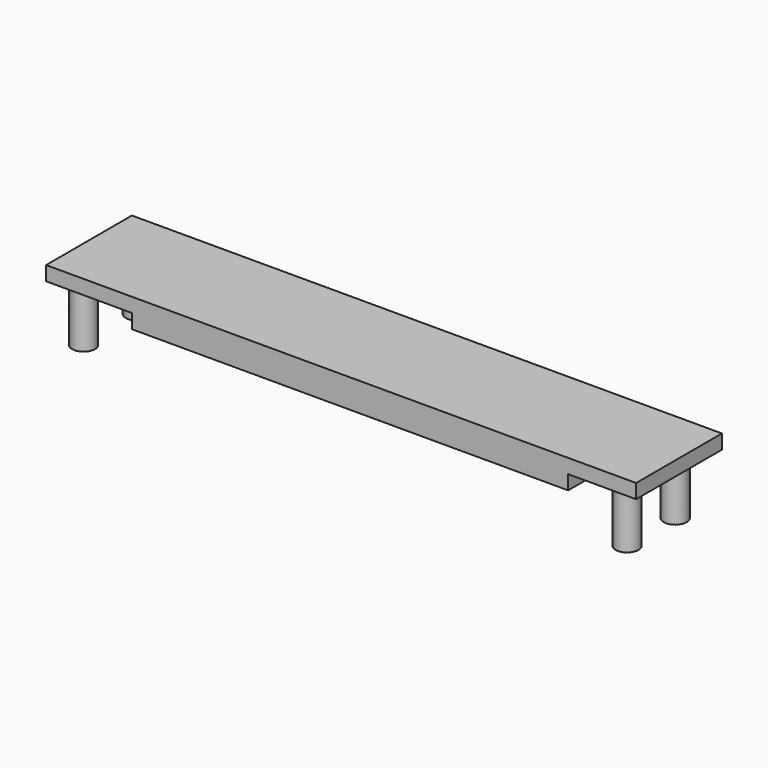
from build123d import *

# Parameters (mm, degrees)
CYLINDER_R        = 1.6
CYLINDER_DEPTH    = 10
BOX001_W          = 61
BOX001_H          = 15
BOX001_DEPTH      = 2
BOX_W             = 82.5
BOX_H             = 15
BOX_DEPTH         = 2
CYLINDER003_R     = 1.6
CYLINDER003_DEPTH = 10
CYLINDER002_R     = 1.6
CYLINDER002_DEPTH = 10
CYLINDER001_R     = 1.6
CYLINDER001_DEPTH = 10


with BuildPart() as taladro1:
    # Cylinder → Cylinder (new body)
    with BuildSketch(Plane(origin=(0, 1.2, -10), x_dir=(1, 0, 0), z_dir=(0, 0, 1))):
        Circle(CYLINDER_R)
    extrude(amount=CYLINDER_DEPTH)


with BuildPart() as perfora_2mm_centro:
    # Box001 → Box001 (new body)
    with BuildSketch(Plane(origin=(12, 0, -2), x_dir=(1, 0, 0), z_dir=(0, 0, 1))):
        with Locations((30.5, 7.5)):
            Rectangle(BOX001_W, BOX001_H)
    extrude(amount=BOX001_DEPTH)


with BuildPart() as fusion001:
    # Box → Box (new body)
    with BuildSketch(Plane.XY):
        with Locations((41.25, 7.5)):
            Rectangle(BOX_W, BOX_H)
    extrude(amount=BOX_DEPTH)

    # Fusion: union perfora_2mm_centro
    add(perfora_2mm_centro.part)


with BuildPart() as fusion001_1:
    # Fusion placement: moved
    add(fusion001.part.moved(Location((-3, -11, -2))))

    # Fusion001: union taladro1
    add(taladro1.part)


with BuildPart() as fusion002:
    # Cylinder003 → Cylinder003 (new body)
    with BuildSketch(Plane(origin=(76, 0.2, -10), x_dir=(1, 0, 0), z_dir=(0, 0, 1))):
        Circle(CYLINDER003_R)
    extrude(amount=CYLINDER003_DEPTH)

    # Fusion002: union Fusion001
    add(fusion001_1.part)


with BuildPart() as fusion003:
    # Cylinder002 → Cylinder002 (new body)
    with BuildSketch(Plane(origin=(76, -8.2, -10), x_dir=(1, 0, 0), z_dir=(0, 0, 1))):
        Circle(CYLINDER002_R)
    extrude(amount=CYLINDER002_DEPTH)

    # Fusion003: union Fusion002
    add(fusion002.part)


with BuildPart() as fusion008:
    # Cylinder001 → Cylinder001 (new body)
    with BuildSketch(Plane(origin=(0, -8.2, -10), x_dir=(1, 0, 0), z_dir=(0, 0, 1))):
        Circle(CYLINDER001_R)
    extrude(amount=CYLINDER001_DEPTH)

    # Fusion008: union Fusion003
    add(fusion003.part)


solid = fusion008.part
